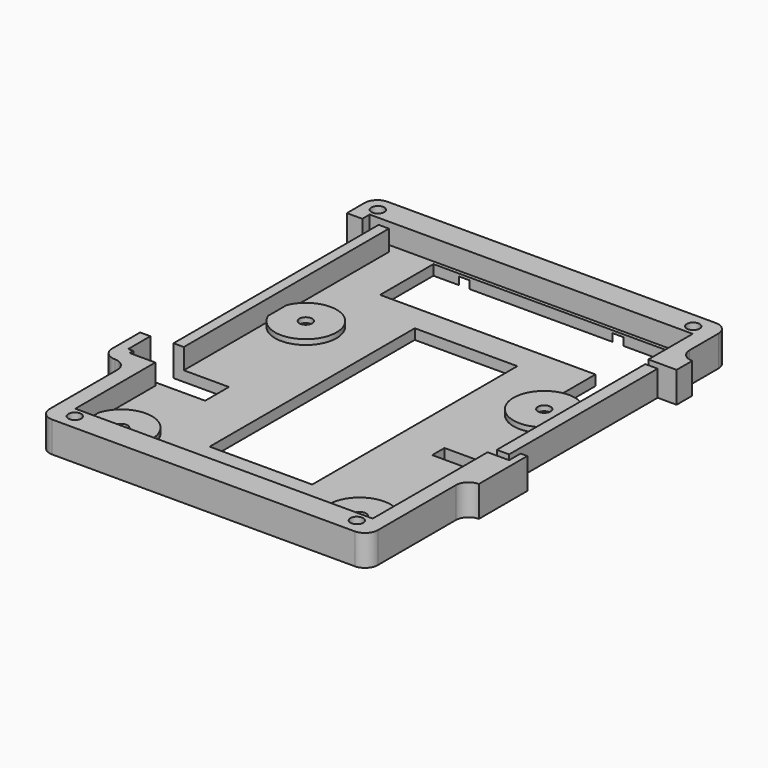
from build123d import *

# Parameters (mm, degrees)
PAD_DEPTH            = 2
SKETCH002_R          = 6
PAD002_DEPTH         = 3
POCKET_DEPTH         = 3.001
SKETCH005_R          = 1.25
POCKET001_DEPTH      = 0.001
POCKET001_DEPTH_BACK = 3.001
POCKET002_DEPTH      = 2
SKETCH012_W          = 25
SKETCH012_H          = 50.4
SKETCH012_H_2        = 36.4
POCKET006_DEPTH      = 0.001
POCKET006_DEPTH_BACK = 3.001
SKETCH014_W          = 2
SKETCH014_H          = 50.4
PAD006_DEPTH         = 4
SKETCH015_W          = 2.4
SKETCH015_H          = 36.4
PAD007_DEPTH         = 3
SKETCH018_R          = 2.9
POCKET008_DEPTH      = 1.5
PAD010_DEPTH         = 4
SKETCH024_R          = 1.25
POCKET010_DEPTH      = 0.001
POCKET010_DEPTH_BACK = 6.001
SKETCH032_W          = 20
SKETCH032_H          = 50
POCKET016_DEPTH      = 0.001
POCKET016_DEPTH_BACK = 6.001
SKETCH041_W          = 15
SKETCH041_H          = 5.8
SKETCH041_H_2        = 3
POCKET020_DEPTH      = 0.001
POCKET020_DEPTH_BACK = 6.001


with BuildPart() as part:
    # Sketch → Pad (new body)
    with BuildSketch(Plane.XY):
        with BuildLine():
            Line((-29.5, -64), (29.5, -64))
            ThreePointArc((29.5, -64), (31.267767, -63.267767), (32, -61.5))
            Line((32, -42.5), (32, -61.5))
            ThreePointArc((34.5, -40), (32.732233, -40.732233), (32, -42.5))
            Line((34.5, 12), (34.5, -40))
            ThreePointArc((32, 14.5), (32.732233, 12.732233), (34.5, 12))
            Line((32, 21.5), (32, 14.5))
            ThreePointArc((32, 21.5), (31.267767, 23.267767), (29.5, 24))
            Line((29.5, 24), (-34.5, 24))
            ThreePointArc((-34.5, 24), (-36.267767, 23.267767), (-37, 21.5))
            Line((-37, 21.5), (-37, -40))
            ThreePointArc((-37, -40), (-36.267767, -41.767767), (-34.5, -42.5))
            ThreePointArc((-32, -45), (-32.732233, -43.232233), (-34.5, -42.5))
            Line((-32, -45), (-32, -61.5))
            ThreePointArc((-32, -61.5), (-31.267767, -63.267767), (-29.5, -64))
        make_face()
    extrude(amount=PAD_DEPTH)

    # Sketch002 → Pad002 (join)
    with BuildSketch(Plane.XY):
        with Locations((-23.25, -55)):
            Circle(SKETCH002_R)
        with Locations((23.25, -55)):
            Circle(SKETCH002_R)
        with Locations((-23.25, -10)):
            Circle(SKETCH002_R)
        with Locations((23.25, -10)):
            Circle(SKETCH002_R)
    extrude(amount=PAD002_DEPTH)

    # Sketch004 → Pocket (cut, through all)
    with BuildSketch(Plane.XY):
        Polygon((-21, 18.3), (-21, 5.3), (21, 5.3), (21, -3.7), (28, -3.7), (28, 18.3), align=None)
    extrude(amount=POCKET_DEPTH, mode=Mode.SUBTRACT)

    # Sketch005 → Pocket001 (cut, two sides)
    with BuildSketch(Plane.XY) as pocket001_sk:
        with Locations((-23.25, -10)):
            Circle(SKETCH005_R)
        with Locations((23.25, -10)):
            Circle(SKETCH005_R)
        with Locations((-23.25, -55)):
            Circle(SKETCH005_R)
        with Locations((23.25, -55)):
            Circle(SKETCH005_R)
    extrude(amount=-POCKET001_DEPTH, mode=Mode.SUBTRACT)
    extrude(pocket001_sk.sketch, amount=POCKET001_DEPTH_BACK, mode=Mode.SUBTRACT)

    # Sketch003 → Pocket002 (cut)
    with BuildSketch(Plane.XY):
        Polygon((-20.882864, -10), (-22.066432, -7.95), (-24.433568, -7.95), (-25.617136, -10), (-24.433568, -12.05), (-22.066432, -12.05), align=None)
        Polygon((25.617136, -10), (24.433568, -7.95), (22.066432, -7.95), (20.882864, -10), (22.066432, -12.05), (24.433568, -12.05), align=None)
        Polygon((-22.066432, -52.95), (-24.433568, -52.95), (-25.617136, -55), (-24.433568, -57.05), (-22.066432, -57.05), (-20.882864, -55), align=None)
        Polygon((24.433568, -52.95), (22.066432, -52.95), (20.882864, -55), (22.066432, -57.05), (24.433568, -57.05), (25.617136, -55), align=None)
    extrude(amount=POCKET002_DEPTH, mode=Mode.SUBTRACT)

    # Sketch012 → Pocket006 (cut, two sides)
    with BuildSketch(Plane.XY) as pocket006_sk:
        with Locations((-43.3, -8)):
            Rectangle(SKETCH012_W, SKETCH012_H)
        with Locations((43.3, -10)):
            Rectangle(SKETCH012_W, SKETCH012_H_2)
    extrude(amount=-POCKET006_DEPTH, mode=Mode.SUBTRACT)
    extrude(pocket006_sk.sketch, amount=POCKET006_DEPTH_BACK, mode=Mode.SUBTRACT)

    # Sketch014 (on Face5 of Pocket006) → Pad006 (join)
    with BuildSketch(Plane.XY.offset(2)):
        with Locations((-29.8, -8)):
            Rectangle(SKETCH014_W, SKETCH014_H)
    extrude(amount=PAD006_DEPTH)

    # Sketch015 (on Face5 of Pocket006) → Pad007 (join)
    with BuildSketch(Plane.XY.offset(2)):
        with Locations((29.6, -10)):
            Rectangle(SKETCH015_W, SKETCH015_H)
    extrude(amount=PAD007_DEPTH)

    # Sketch018 → Pocket008 (cut)
    with BuildSketch(Plane.XY):
        with Locations((-15, 21)):
            Circle(SKETCH018_R)
        with Locations((15, 21)):
            Circle(SKETCH018_R)
        with Locations((-15, -55)):
            Circle(SKETCH018_R)
        with Locations((15, -55)):
            Circle(SKETCH018_R)
    extrude(amount=POCKET008_DEPTH, mode=Mode.SUBTRACT)

    # Sketch020 (on Face5 of Pocket008) → Pad010 (join)
    with BuildSketch(Plane.XY.offset(2)):
        with BuildLine():
            Line((-34.5, 24), (29.5, 24))
            ThreePointArc((32, 21.5), (31.267767, 23.267767), (29.5, 24))
            Line((32, 21.5), (32, 14.5))
            ThreePointArc((32, 14.5), (32.732233, 12.732233), (34.5, 12))
            Line((34.5, 12), (34.5, 8.2))
            Line((29, 8.2), (34.5, 8.2))
            Line((29, 19), (29, 8.2))
            Line((-34, 19), (29, 19))
            Line((-34, 17.2), (-34, 19))
            Line((-37, 17.2), (-34, 17.2))
            Line((-37, 21.5), (-37, 17.2))
            ThreePointArc((-34.5, 24), (-36.267767, 23.267767), (-37, 21.5))
        make_face()
        with BuildLine():
            Line((34.5, -28.2), (34.5, -40))
            ThreePointArc((34.5, -40), (32.732233, -40.732233), (32, -42.5))
            Line((32, -42.5), (32, -61.5))
            ThreePointArc((29.5, -64), (31.267767, -63.267767), (32, -61.5))
            Line((29.5, -64), (-29.5, -64))
            ThreePointArc((-32, -61.5), (-31.267767, -63.267767), (-29.5, -64))
            Line((-32, -61.5), (-32, -45))
            ThreePointArc((-32, -45), (-32.732233, -43.232233), (-34.5, -42.5))
            ThreePointArc((-37, -40), (-36.267767, -41.767767), (-34.5, -42.5))
            Line((-37, -40), (-37, -33.2))
            Line((-34, -33.2), (-37, -33.2))
            Line((-34, -39.5), (-34, -33.2))
            Line((-29, -39.5), (-34, -39.5))
            Line((-29, -59), (-29, -39.5))
            Line((29, -59), (-29, -59))
            Line((29, -28.2), (29, -59))
            Line((34.5, -28.2), (29, -28.2))
        make_face()
    extrude(amount=PAD010_DEPTH)

    # Sketch024 → Pocket010 (cut, two sides)
    with BuildSketch(Plane.XY) as pocket010_sk:
        with Locations((-34, 21)):
            Circle(SKETCH024_R)
        with Locations((27.5, 21)):
            Circle(SKETCH024_R)
        with Locations((27.5, -61)):
            Circle(SKETCH024_R)
        with Locations((-27.5, -61)):
            Circle(SKETCH024_R)
    extrude(amount=-POCKET010_DEPTH, mode=Mode.SUBTRACT)
    extrude(pocket010_sk.sketch, amount=POCKET010_DEPTH_BACK, mode=Mode.SUBTRACT)

    # Sketch032 → Pocket016 (cut, two sides)
    with BuildSketch(Plane.XY) as pocket016_sk:
        with Locations((0, -25)):
            Rectangle(SKETCH032_W, SKETCH032_H)
    extrude(amount=-POCKET016_DEPTH, mode=Mode.SUBTRACT)
    extrude(pocket016_sk.sketch, amount=POCKET016_DEPTH_BACK, mode=Mode.SUBTRACT)

    # Sketch041 → Pocket020 (cut, two sides)
    with BuildSketch(Plane.XY) as pocket020_sk:
        with Locations((-27.5, -35.7)):
            Rectangle(SKETCH041_W, SKETCH041_H)
        with Locations((25.7, -29.5)):
            Rectangle(SKETCH041_W, SKETCH041_H_2)
    extrude(amount=-POCKET020_DEPTH, mode=Mode.SUBTRACT)
    extrude(pocket020_sk.sketch, amount=POCKET020_DEPTH_BACK, mode=Mode.SUBTRACT)


solid = part.part
